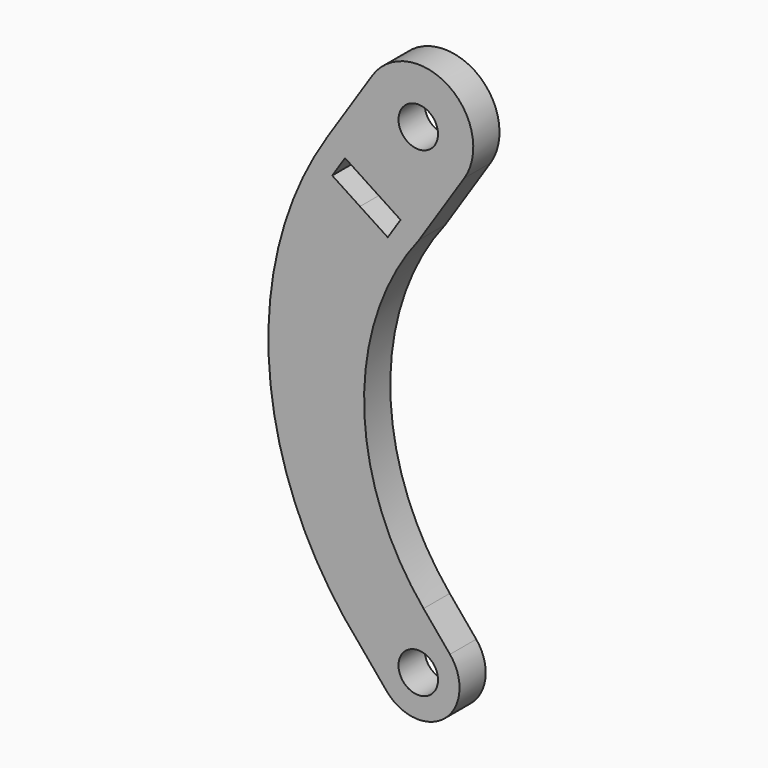
from build123d import *

# Parameters (mm, degrees)
F0_R     = 2.873
F1_DEPTH = 4.7625


with BuildPart() as f1:
    # F0 (on Front) → F1 (new body)
    with BuildSketch(Plane.XZ):
        with BuildLine():
            Line((-8.450184, -34.154033), (-4.610575, -38.764609))
            ThreePointArc((-4.610575, -38.764609), (3.839609, -39.535575), (4.610575, -31.085391))
            Line((4.610575, -31.085391), (0.770967, -26.474816))
            ThreePointArc((0.770967, -26.474816), (-7.870813, -3.100986), (0.120073, 20.503295))
            Line((0.120073, 20.503295), (6.693117, 30.54297))
            ThreePointArc((6.693117, 30.54297), (4.38203, 41.618117), (-6.693117, 39.30703))
            Line((-6.693117, 39.30703), (-13.266162, 29.267354))
            ThreePointArc((-13.266162, 29.267354), (-21.639644, -3.262043), (-8.450184, -34.154033))
        make_face()
        with Locations((0, -34.925)):
            Circle(F0_R, mode=Mode.SUBTRACT)
        Polygon((-12.509769, 24.626268), (-10.645435, 27.473854), (-6.608648, 24.830943), (-2.571862, 22.188031), (-4.436197, 19.340445), (-8.472983, 21.983356), align=None, mode=Mode.SUBTRACT)
        with Locations((0, 34.925)):
            Circle(F0_R, mode=Mode.SUBTRACT)
    extrude(amount=F1_DEPTH)


solid = f1.part
